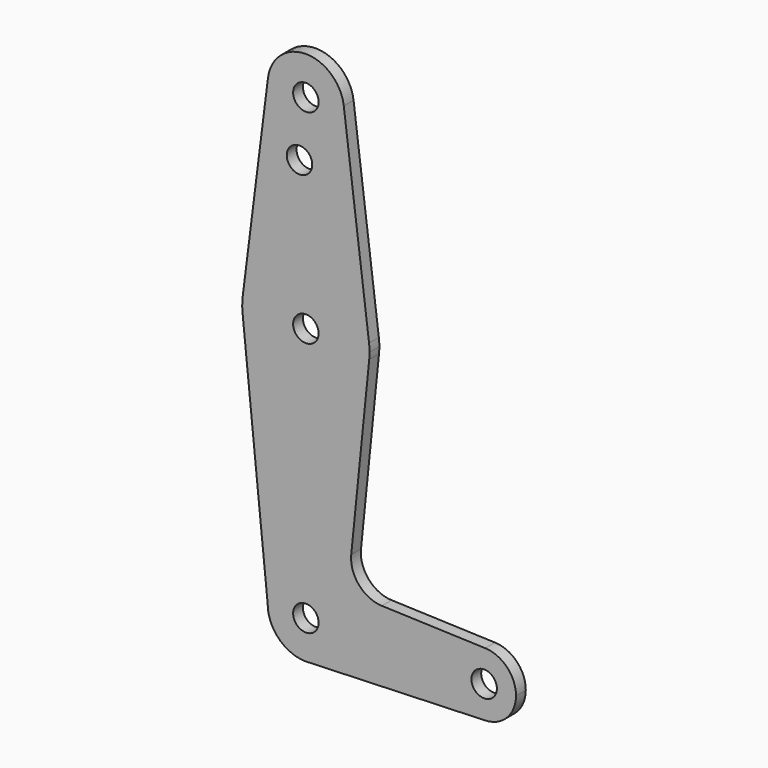
from build123d import *

# Parameters (mm, degrees)
F0_R     = 3.175
F1_DEPTH = 3.048


with BuildPart() as f1:
    # F0 (on Front) → F1 (new body)
    with BuildSketch(Plane.XZ):
        with BuildLine():
            ThreePointArc((-9.450293, 115.490625), (-0.596483, 104.793695), (9.525, 114.3))
            ThreePointArc((9.525, 114.3), (9.506305, 114.896483), (9.450293, 115.490625))
            ThreePointArc((9.450293, 115.490625), (0, 123.825), (-9.450293, 115.490625))
        make_face()
        with Locations((0, 114.3)):
            Circle(F0_R, mode=Mode.SUBTRACT)
        with BuildLine():
            ThreePointArc((9.450293, 115.490625), (9.506305, 114.896483), (9.525, 114.3))
            ThreePointArc((9.525, 114.3), (-0.596483, 104.793695), (-9.450293, 115.490625))
            Line((-9.450293, 115.490625), (-15.750488, 65.484375))
            ThreePointArc((-15.750488, 65.484375), (0, 79.375), (15.750488, 65.484375))
            Line((15.750488, 65.484375), (9.450293, 115.490625))
        make_face()
        with Locations((-1.5875, 100.0252)):
            Circle(F0_R, mode=Mode.SUBTRACT)
        with BuildLine():
            ThreePointArc((15.875, 63.5), (15.843841, 64.494139), (15.750488, 65.484375))
            ThreePointArc((15.750488, 65.484375), (0, 79.375), (-15.750488, 65.484375))
            ThreePointArc((-15.750488, 65.484375), (-15.873819, 63.693615), (-15.794203, 61.90038))
            ThreePointArc((-15.794203, 61.90038), (0, 47.625), (15.794203, 61.90038))
            ThreePointArc((15.794203, 61.90038), (15.854788, 62.699171), (15.875, 63.5))
        make_face()
        with Locations((0, 63.5)):
            Circle(F0_R, mode=Mode.SUBTRACT)
        with BuildLine():
            ThreePointArc((15.794203, 61.90038), (0, 47.625), (-15.794203, 61.90038))
            Line((-15.794203, 61.90038), (-9.525, 0))
            ThreePointArc((-9.525, 0), (-6.735192, 6.735192), (0, 9.525))
            ThreePointArc((0, 9.525), (0.338886, 9.51897), (0.677344, 9.500886))
            ThreePointArc((0.677344, 9.500886), (6.970557, 6.491299), (9.525, 0))
            ThreePointArc((9.525, 0), (6.970557, -6.491299), (0.677344, -9.500886))
            Line((0.677344, -9.500886), (44.732405, -7.932475))
            ThreePointArc((44.732405, -7.932475), (36.5125, 0), (44.732405, 7.932475))
            Line((44.732405, 7.932475), (18.934103, 8.850924))
            ThreePointArc((18.934103, 8.850924), (13.224974, 11.57098), (11.307223, 17.59718))
            Line((11.307223, 17.59718), (15.794203, 61.90038))
        make_face()
        with BuildLine():
            ThreePointArc((0, 9.525), (-6.735192, 6.735192), (-9.525, 0))
            ThreePointArc((-9.525, 0), (-6.735192, -6.735192), (0, -9.525))
            Line((0, -9.525), (0.677344, -9.500886))
            ThreePointArc((0.677344, -9.500886), (6.970557, -6.491299), (9.525, 0))
            ThreePointArc((9.525, 0), (6.970557, 6.491299), (0.677344, 9.500886))
            Line((0.677344, 9.500886), (0, 9.525))
        make_face()
        Circle(F0_R, mode=Mode.SUBTRACT)
        with BuildLine():
            Line((0.677344, -9.500886), (0, -9.525))
            ThreePointArc((0, -9.525), (0.338886, -9.51897), (0.677344, -9.500886))
        make_face()
        with BuildLine():
            ThreePointArc((52.3875, 0), (50.161633, 5.51191), (44.732405, 7.932475))
            ThreePointArc((44.732405, 7.932475), (36.5125, 0), (44.732405, -7.932475))
            ThreePointArc((44.732405, -7.932475), (50.161633, -5.51191), (52.3875, 0))
        make_face()
        with Locations((44.45, 0)):
            Circle(F0_R, mode=Mode.SUBTRACT)
    extrude(amount=F1_DEPTH)


solid = f1.part
